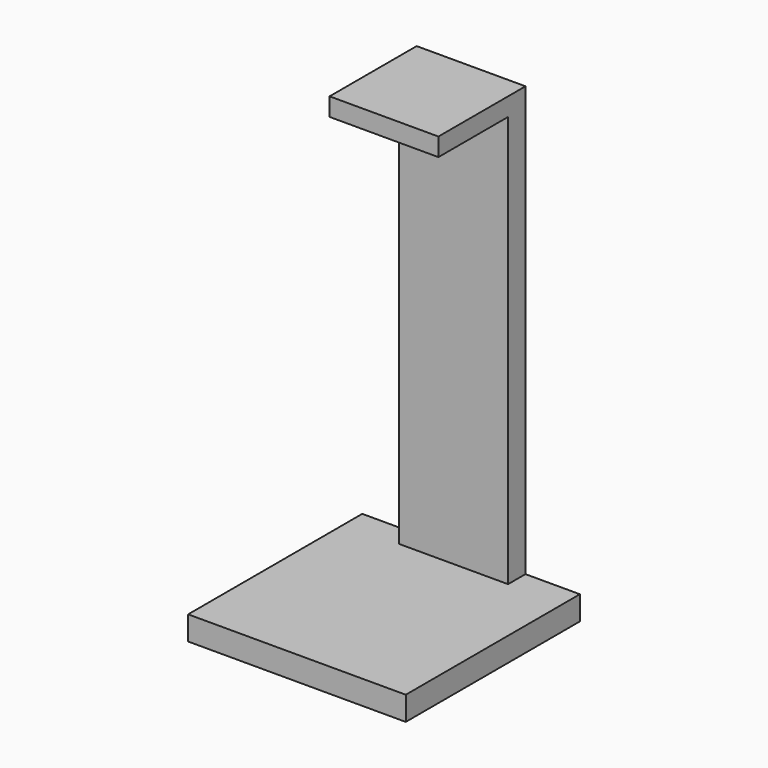
from build123d import *

# Parameters (mm, degrees)
F0_W     = 76.2
F0_H     = 8.382
F1_DEPTH = 76.2
F2_W     = 38.1
F2_H     = 152.4
F3_DEPTH = 7.62
F4_W     = 38.1
F4_H     = 38.1
F5_DEPTH = 6.35


with BuildPart() as f1:
    # F0 (on Front) → F1 (new body)
    with BuildSketch(Plane.XZ):
        Rectangle(F0_W, F0_H)
    extrude(amount=F1_DEPTH)

    # F2 (on Front) → F3 (join)
    with BuildSketch(Plane.XZ):
        with Locations((0, 72.009)):
            Rectangle(F2_W, F2_H)
    extrude(amount=F3_DEPTH)

    # F4 (on face) → F5 (join)
    with BuildSketch(Plane.XY.offset(148.209)):
        with Locations((0, -19.05)):
            Rectangle(F4_W, F4_H)
    extrude(amount=F5_DEPTH)


solid = f1.part
